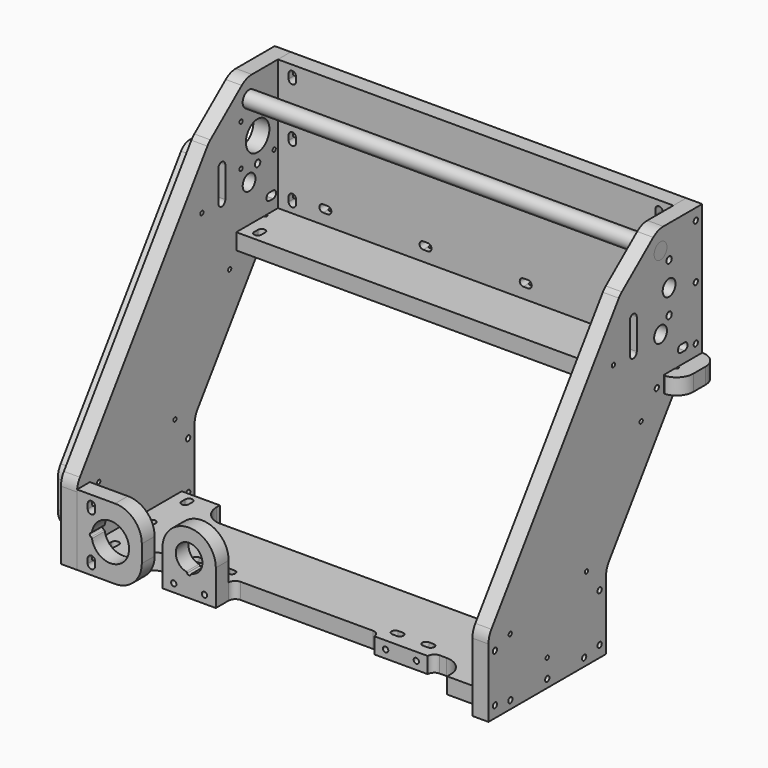
from build123d import *

# Parameters (mm, degrees)
F0_W      = 296
F0_H      = 98
F1_DEPTH  = 12
F3_DEPTH  = 12
F4_R      = 5.975
F4_R_2    = 11
F4_R_3    = 1.5
F4_R_4    = 2.5
F5_DEPTH  = 25
F6_R      = 6
F7_DEPTH  = 320
F8_R      = 5.975
F8_R_2    = 2.5
F8_R_3    = 6
F9_DEPTH  = 12
F11_DEPTH = 12
F13_DEPTH = 12
F15_DEPTH = 25
F17_DEPTH = 12
F18_R     = 2
F19_DEPTH = 21
F21_DEPTH = 25
F22_R     = 2
F23_DEPTH = 21
F24_SIZE2 = 35
F24_SIZE  = 15
F25_SIZE2 = 15
F25_SIZE  = 35
F26_R     = 15
F26_2_R   = 15
F27_R     = 2
F28_DEPTH = 21
F30_DEPTH = 12
F31_R     = 15
F32_R     = 1.5
F33_DEPTH = 344.501
F34_R     = 2
F35_DEPTH = 12
F36_R     = 2
F37_DEPTH = 10


with BuildPart() as f1:
    # F0 (on Front) → F1 (new body)
    with BuildSketch(Plane.XZ):
        with Locations((0, 49)):
            Rectangle(F0_W, F0_H)
    extrude(amount=F1_DEPTH)


with BuildPart() as f3:
    # F2 (on face) → F3 (new body)
    with BuildSketch(Plane(origin=(-148, 0, 0), x_dir=(0, -1, 0), z_dir=(-1, 0, 0))):
        Polygon((56.6998794181, 98), (0, 98), (0, 0), (24, 0), (24, -12), (90, -105.919646507), (90, -162), (200, -162), (200, -105.919646507), align=None)
    extrude(amount=F3_DEPTH)

    # F4 (on face) → F5 (cut)
    with BuildSketch(Plane.YZ.offset(-148)):
        with Locations((-39, 28)):
            Circle(F4_R)
        with Locations((-39, 83)):
            Circle(F4_R)
        with Locations((-31, 55.5)):
            Circle(F4_R_2)
        with Locations((-46.5, 71)):
            Circle(F4_R_3)
        with Locations((-46.5, 40)):
            Circle(F4_R_3)
        with Locations((-15.5, 40)):
            Circle(F4_R_3)
        with Locations((-15.5, 71)):
            Circle(F4_R_3)
        with Locations((-31, 73.75)):
            Circle(F4_R_4)
        with Locations((-31, 37.25)):
            Circle(F4_R_4)
    extrude(amount=-F5_DEPTH, mode=Mode.SUBTRACT)


with BuildPart() as f7:
    # F6 (on face) → F7 (new body)
    with BuildSketch(Plane(origin=(-160, 0, 0), x_dir=(0, -1, 0), z_dir=(-1, 0, 0))):
        with Locations((39, 83)):
            Circle(F6_R)
    extrude(amount=-F7_DEPTH)


with BuildPart() as f9:
    # F8 (on face) → F9 (new body)
    with BuildSketch(Plane.YZ.offset(148)):
        Polygon((-90, -162), (-90, -105.919646507), (-24, -12), (-24, 0), (0, 0), (0, 98), (-56.6998794181, 98), (-200, -105.919646507), (-200, -162), align=None)
        with Locations((-39, 28)):
            Circle(F8_R, mode=Mode.SUBTRACT)
        with Locations((-31, 37.25)):
            Circle(F8_R_2, mode=Mode.SUBTRACT)
        with Locations((-31, 55.5)):
            Circle(F8_R_3, mode=Mode.SUBTRACT)
        with Locations((-31, 73.75)):
            Circle(F8_R_2, mode=Mode.SUBTRACT)
        with Locations((-39, 83)):
            Circle(F8_R, mode=Mode.SUBTRACT)
    extrude(amount=F9_DEPTH)


with BuildPart() as f11:
    # F10 (on face) → F11 (new body)
    with BuildSketch(Plane.XZ.offset(200)):
        with BuildLine():
            Line((-148, -109), (-148, -162))
            Line((-148, -162), (-119.5, -162))
            ThreePointArc((-119.5, -162), (-105.3578643763, -156.1421356237), (-99.5, -142))
            Line((-99.5, -142), (-99.5, -129))
            ThreePointArc((-99.5, -129), (-105.3578643763, -114.8578643763), (-119.5, -109))
            Line((-119.5, -109), (-148, -109))
        make_face()
        with BuildLine():
            ThreePointArc((-136.7997078464, -133.2934895528), (-109.025, -135.5), (-136.7997078464, -137.7065104472))
            ThreePointArc((-136.7997078464, -137.7065104472), (-137.0218329376, -137.2207641448), (-137.4622987478, -136.9186401695))
            ThreePointArc((-137.4622987478, -136.9186401695), (-138.475, -135.5), (-137.4622987478, -134.0813598305))
            ThreePointArc((-137.4622987478, -134.0813598305), (-137.0218329376, -133.7792358552), (-136.7997078464, -133.2934895528))
        make_face(mode=Mode.SUBTRACT)
    extrude(amount=-F11_DEPTH)

    # F14 (on face) → F15 (cut)
    with BuildSketch(Plane.XZ.offset(200)):
        with BuildLine():
            ThreePointArc((-134.5, -115.75), (-137.25, -113), (-140, -115.75))
            Line((-140, -115.75), (-140, -119.25))
            ThreePointArc((-140, -119.25), (-137.25, -122), (-134.5, -119.25))
            Line((-134.5, -119.25), (-134.5, -115.75))
        make_face()
        with BuildLine():
            ThreePointArc((-140, -155.25), (-137.25, -158), (-134.5, -155.25))
            Line((-134.5, -155.25), (-134.5, -151.75))
            ThreePointArc((-134.5, -151.75), (-137.25, -149), (-140, -151.75))
            Line((-140, -151.75), (-140, -155.25))
        make_face()
    extrude(amount=-F15_DEPTH, mode=Mode.SUBTRACT)


with BuildPart() as f13:
    # F12 (on face) → F13 (new body)
    with BuildSketch(Plane(origin=(0, 0, -162), x_dir=(1, 0, 0), z_dir=(0, 0, -1))):
        with BuildLine():
            Line((-99.5, 170), (-104.5, 170))
            ThreePointArc((-104.5, 170), (-115.1066017178, 174.3933982822), (-119.5, 185))
            Line((-119.5, 185), (-119.5, 188))
            Line((-119.5, 188), (-148, 188))
            Line((-148, 188), (-148, 145))
            Line((-148, 145), (-148, 102))
            Line((-148, 102), (-119.5, 102))
            Line((-119.5, 102), (-119.5, 105))
            ThreePointArc((-119.5, 105), (-115.1066017178, 115.6066017178), (-104.5, 120))
            Line((-104.5, 120), (0, 120))
            Line((0, 120), (104.5, 120))
            ThreePointArc((104.5, 120), (115.1066017178, 115.6066017178), (119.5, 105))
            Line((119.5, 105), (119.5, 102))
            Line((119.5, 102), (148, 102))
            Line((148, 102), (148, 145))
            Line((148, 145), (148, 188))
            Line((148, 188), (119.5, 188))
            Line((119.5, 188), (119.5, 185))
            ThreePointArc((119.5, 185), (115.1066017178, 174.3933982822), (104.5, 170))
            Line((104.5, 170), (99.5, 170))
            ThreePointArc((99.5, 170), (95.9644660941, 171.4644660941), (94.5, 175))
            Line((94.5, 175), (54.5, 175))
            ThreePointArc((54.5, 175), (53.0355339059, 171.4644660941), (49.5, 170))
            Line((49.5, 170), (0, 170))
            Line((0, 170), (-49.5, 170))
            ThreePointArc((-49.5, 170), (-53.0355339059, 171.4644660941), (-54.5, 175))
            Line((-54.5, 175), (-94.5, 175))
            ThreePointArc((-94.5, 175), (-95.9644660941, 171.4644660941), (-99.5, 170))
        make_face()
        with BuildLine():
            Line((-134.5, 112.25), (-134.5, 108.75))
            ThreePointArc((-134.5, 108.75), (-137.25, 106), (-140, 108.75))
            Line((-140, 108.75), (-140, 112.25))
            ThreePointArc((-140, 112.25), (-137.25, 115), (-134.5, 112.25))
        make_face(mode=Mode.SUBTRACT)
        with BuildLine():
            ThreePointArc((140, 108.75), (137.25, 106), (134.5, 108.75))
            Line((134.5, 108.75), (134.5, 112.25))
            ThreePointArc((134.5, 112.25), (137.25, 115), (140, 112.25))
            Line((140, 112.25), (140, 108.75))
        make_face(mode=Mode.SUBTRACT)
        with BuildLine():
            Line((-134.5, 146.75), (-134.5, 143.25))
            ThreePointArc((-134.5, 143.25), (-137.25, 140.5), (-140, 143.25))
            Line((-140, 143.25), (-140, 146.75))
            ThreePointArc((-140, 146.75), (-137.25, 149.5), (-134.5, 146.75))
        make_face(mode=Mode.SUBTRACT)
        with BuildLine():
            Line((-84.25, 161), (-87.75, 161))
            ThreePointArc((-87.75, 161), (-90.5, 163.75), (-87.75, 166.5))
            Line((-87.75, 166.5), (-84.25, 166.5))
            ThreePointArc((-84.25, 166.5), (-81.5, 163.75), (-84.25, 161))
        make_face(mode=Mode.SUBTRACT)
        with BuildLine():
            ThreePointArc((-64.75, 161), (-67.5, 163.75), (-64.75, 166.5))
            Line((-64.75, 166.5), (-61.25, 166.5))
            ThreePointArc((-61.25, 166.5), (-58.5, 163.75), (-61.25, 161))
            Line((-61.25, 161), (-64.75, 161))
        make_face(mode=Mode.SUBTRACT)
        with BuildLine():
            ThreePointArc((-134.5, 177.75), (-137.25, 175), (-140, 177.75))
            Line((-140, 177.75), (-140, 181.25))
            ThreePointArc((-140, 181.25), (-137.25, 184), (-134.5, 181.25))
            Line((-134.5, 181.25), (-134.5, 177.75))
        make_face(mode=Mode.SUBTRACT)
        with BuildLine():
            ThreePointArc((61.25, 161), (58.5, 163.75), (61.25, 166.5))
            Line((61.25, 166.5), (64.75, 166.5))
            ThreePointArc((64.75, 166.5), (67.5, 163.75), (64.75, 161))
            Line((64.75, 161), (61.25, 161))
        make_face(mode=Mode.SUBTRACT)
        with BuildLine():
            Line((140, 146.75), (140, 143.25))
            ThreePointArc((140, 143.25), (137.25, 140.5), (134.5, 143.25))
            Line((134.5, 143.25), (134.5, 146.75))
            ThreePointArc((134.5, 146.75), (137.25, 149.5), (140, 146.75))
        make_face(mode=Mode.SUBTRACT)
        with BuildLine():
            Line((84.25, 166.5), (87.75, 166.5))
            ThreePointArc((87.75, 166.5), (90.5, 163.75), (87.75, 161))
            Line((87.75, 161), (84.25, 161))
            ThreePointArc((84.25, 161), (81.5, 163.75), (84.25, 166.5))
        make_face(mode=Mode.SUBTRACT)
        with BuildLine():
            ThreePointArc((134.5, 181.25), (137.25, 184), (140, 181.25))
            Line((140, 181.25), (140, 177.75))
            ThreePointArc((140, 177.75), (137.25, 175), (134.5, 177.75))
            Line((134.5, 177.75), (134.5, 181.25))
        make_face(mode=Mode.SUBTRACT)
    extrude(amount=-F13_DEPTH)


with BuildPart() as f17:
    # F16 (on face) → F17 (new body)
    with BuildSketch(Plane(origin=(0, 0, 0), x_dir=(1, 0, 0), z_dir=(0, 0, -1))):
        with BuildLine():
            Line((-160, 11.5), (-160, 0))
            Line((-160, 0), (160, 0))
            Line((160, 0), (160, 11.5))
            Line((160, 11.5), (160, 12.5))
            Line((160, 12.5), (160, 22.5))
            ThreePointArc((160, 22.5), (159.1784161637, 22.7450099602), (158.6252272915, 23.4))
            ThreePointArc((158.6252272915, 23.4), (158.25643471, 23.8366600265), (157.7087121525, 24))
            Line((157.7087121525, 24), (150.2912878475, 24))
            ThreePointArc((150.2912878475, 24), (149.74356529, 23.8366600265), (149.3747727085, 23.4))
            ThreePointArc((149.3747727085, 23.4), (146.9393398282, 22.9393398282), (147.4, 25.3747727085))
            ThreePointArc((147.4, 25.3747727085), (147.8366600265, 25.74356529), (148, 26.2912878475))
            Line((148, 26.2912878475), (148, 51))
            Line((148, 51), (0, 51))
            Line((0, 51), (-148, 51))
            Line((-148, 51), (-148, 26.2912878475))
            ThreePointArc((-148, 26.2912878475), (-147.8366600265, 25.74356529), (-147.4, 25.3747727085))
            ThreePointArc((-147.4, 25.3747727085), (-146.9393398282, 22.9393398282), (-149.3747727085, 23.4))
            ThreePointArc((-149.3747727085, 23.4), (-149.74356529, 23.8366600265), (-150.2912878475, 24))
            Line((-150.2912878475, 24), (-157.7087121525, 24))
            ThreePointArc((-157.7087121525, 24), (-158.25643471, 23.8366600265), (-158.6252272915, 23.4))
            ThreePointArc((-158.6252272915, 23.4), (-160.7799539648, 22.7187225856), (-161.1643633307, 24.9456521739))
            ThreePointArc((-161.1643633307, 24.9456521739), (-166.9860844834, 22.8655498451), (-171.0989864402, 18.25))
            ThreePointArc((-171.0989864402, 18.25), (-166.4951905284, 13.3199953184), (-160, 11.5))
        make_face()
        with BuildLine():
            ThreePointArc((-172.5, 12.5), (-168.8388347648, 3.6611652352), (-160, 0))
            Line((-160, 0), (-160, 11.5))
            ThreePointArc((-160, 11.5), (-166.4951905284, 13.3199953184), (-171.0989864402, 18.25))
            ThreePointArc((-171.0989864402, 18.25), (-172.1446970012, 15.4591104658), (-172.5, 12.5))
        make_face()
        with BuildLine():
            Line((160, 11.5), (160, 0))
            ThreePointArc((160, 0), (168.8388347648, 3.6611652352), (172.5, 12.5))
            ThreePointArc((172.5, 12.5), (172.1446970012, 15.4591104658), (171.0989864402, 18.25))
            ThreePointArc((171.0989864402, 18.25), (166.4951905284, 13.3199953184), (160, 11.5))
        make_face()
        with BuildLine():
            Line((-172.5, 24), (-172.5, 12.5))
            ThreePointArc((-172.5, 12.5), (-172.1446970012, 15.4591104658), (-171.0989864402, 18.25))
            ThreePointArc((-171.0989864402, 18.25), (-172.1446970012, 21.0408895342), (-172.5, 24))
        make_face()
        with BuildLine():
            Line((160, 12.5), (160, 11.5))
            ThreePointArc((160, 11.5), (166.4951905284, 13.3199953184), (171.0989864402, 18.25))
            ThreePointArc((171.0989864402, 18.25), (166.9860844834, 22.8655498451), (161.1643633307, 24.9456521739))
            ThreePointArc((161.1643633307, 24.9456521739), (161.3543408472, 23.3552047848), (160, 22.5))
            Line((160, 22.5), (160, 12.5))
        make_face()
        with BuildLine():
            ThreePointArc((171.0989864402, 18.25), (172.1446970012, 15.4591104658), (172.5, 12.5))
            Line((172.5, 12.5), (172.5, 24))
            ThreePointArc((172.5, 24), (172.1446970012, 21.0408895342), (171.0989864402, 18.25))
        make_face()
        with BuildLine():
            ThreePointArc((-172.5, 24), (-172.1446970012, 21.0408895342), (-171.0989864402, 18.25))
            ThreePointArc((-171.0989864402, 18.25), (-166.9860844834, 22.8655498451), (-161.1643633307, 24.9456521739))
            ThreePointArc((-161.1643633307, 24.9456521739), (-160.9078990027, 25.1940349245), (-160.6, 25.3747727085))
            ThreePointArc((-160.6, 25.3747727085), (-160.1633399735, 25.74356529), (-160, 26.2912878475))
            Line((-160, 26.2912878475), (-160, 35.4564392374))
            ThreePointArc((-160, 35.4564392374), (-160.3243360753, 36.1936490182), (-161.0869565217, 36.452651345))
            ThreePointArc((-161.0869565217, 36.452651345), (-169.2151222597, 32.4457990587), (-172.5, 24))
        make_face()
        with BuildLine():
            ThreePointArc((161.1643633307, 24.9456521739), (166.9860844834, 22.8655498451), (171.0989864402, 18.25))
            ThreePointArc((171.0989864402, 18.25), (172.1446970012, 21.0408895342), (172.5, 24))
            ThreePointArc((172.5, 24), (169.2151222597, 32.4457990587), (161.0869565217, 36.452651345))
            ThreePointArc((161.0869565217, 36.452651345), (160.3243360753, 36.1936490182), (160, 35.4564392374))
            Line((160, 35.4564392374), (160, 26.2912878475))
            ThreePointArc((160, 26.2912878475), (160.1633399735, 25.74356529), (160.6, 25.3747727085))
            ThreePointArc((160.6, 25.3747727085), (160.9078990027, 25.1940349245), (161.1643633307, 24.9456521739))
        make_face()
    extrude(amount=F17_DEPTH)


with BuildPart() as f19_tool:
    # F18 (on face) → F19 (new body)
    with BuildSketch(Plane(origin=(-160, 0, 0), x_dir=(0, -1, 0), z_dir=(-1, 0, 0))):
        with Locations((194, -153.5)):
            Circle(F18_R)
        with Locations((194, -117.5)):
            Circle(F18_R)
        with Locations((96, -117.5)):
            Circle(F18_R)
        with Locations((96, -153.5)):
            Circle(F18_R)
        with Locations((179.5, -156)):
            Circle(F18_R)
        with Locations((145, -156)):
            Circle(F18_R)
        with Locations((110.5, -156)):
            Circle(F18_R)
        with Locations((6, 89.5)):
            Circle(F18_R)
        with Locations((6, 49)):
            Circle(F18_R)
        with Locations((6, 8.5)):
            Circle(F18_R)
        with BuildLine():
            ThreePointArc((16.5, 13.5), (13.75, 10.75), (16.5, 8))
            Line((16.5, 8), (20, 8))
            ThreePointArc((20, 8), (22.75, 10.75), (20, 13.5))
            Line((20, 13.5), (16.5, 13.5))
        make_face()
        with Locations((42.5, -6)):
            Circle(F18_R)
    extrude(amount=-F19_DEPTH)


with BuildPart() as f1_1:
    add(f1.part)

    # F19: cut by f19_tool
    add(f19_tool.part, mode=Mode.SUBTRACT)

    # F20 (on face) → F21 (cut)
    with BuildSketch(Plane(origin=(0, 0, 0), x_dir=(-1, 0, 0), z_dir=(0, 1, 0))):
        with BuildLine():
            ThreePointArc((140, 91.25), (137.25, 94), (134.5, 91.25))
            Line((134.5, 91.25), (134.5, 87.75))
            ThreePointArc((134.5, 87.75), (137.25, 85), (140, 87.75))
            Line((140, 87.75), (140, 91.25))
        make_face()
        with BuildLine():
            ThreePointArc((140, 50.75), (137.25, 53.5), (134.5, 50.75))
            Line((134.5, 50.75), (134.5, 47.25))
            ThreePointArc((134.5, 47.25), (137.25, 44.5), (140, 47.25))
            Line((140, 47.25), (140, 50.75))
        make_face()
        with BuildLine():
            ThreePointArc((140, 10.25), (137.25, 13), (134.5, 10.25))
            Line((134.5, 10.25), (134.5, 6.75))
            ThreePointArc((134.5, 6.75), (137.25, 4), (140, 6.75))
            Line((140, 6.75), (140, 10.25))
        make_face()
        with BuildLine():
            Line((-134.5, 87.75), (-134.5, 91.25))
            ThreePointArc((-134.5, 91.25), (-137.25, 94), (-140, 91.25))
            Line((-140, 91.25), (-140, 87.75))
            ThreePointArc((-140, 87.75), (-137.25, 85), (-134.5, 87.75))
        make_face()
        with BuildLine():
            Line((-134.5, 47.25), (-134.5, 50.75))
            ThreePointArc((-134.5, 50.75), (-137.25, 53.5), (-140, 50.75))
            Line((-140, 50.75), (-140, 47.25))
            ThreePointArc((-140, 47.25), (-137.25, 44.5), (-134.5, 47.25))
        make_face()
        with BuildLine():
            ThreePointArc((-134.5, 10.25), (-137.25, 13), (-140, 10.25))
            Line((-140, 10.25), (-140, 6.75))
            ThreePointArc((-140, 6.75), (-137.25, 4), (-134.5, 6.75))
            Line((-134.5, 6.75), (-134.5, 10.25))
        make_face()
        with BuildLine():
            ThreePointArc((-110.75, 8), (-108, 10.75), (-110.75, 13.5))
            Line((-110.75, 13.5), (-114.25, 13.5))
            ThreePointArc((-114.25, 13.5), (-117, 10.75), (-114.25, 8))
            Line((-114.25, 8), (-110.75, 8))
        make_face()
        with BuildLine():
            ThreePointArc((-39.25, 13.5), (-42, 10.75), (-39.25, 8))
            Line((-39.25, 8), (-35.75, 8))
            ThreePointArc((-35.75, 8), (-33, 10.75), (-35.75, 13.5))
            Line((-35.75, 13.5), (-39.25, 13.5))
        make_face()
        with BuildLine():
            ThreePointArc((35.75, 13.5), (33, 10.75), (35.75, 8))
            Line((35.75, 8), (39.25, 8))
            ThreePointArc((39.25, 8), (42, 10.75), (39.25, 13.5))
            Line((39.25, 13.5), (35.75, 13.5))
        make_face()
        with BuildLine():
            ThreePointArc((110.75, 13.5), (108, 10.75), (110.75, 8))
            Line((110.75, 8), (114.25, 8))
            ThreePointArc((114.25, 8), (117, 10.75), (114.25, 13.5))
            Line((114.25, 13.5), (110.75, 13.5))
        make_face()
    extrude(amount=-F21_DEPTH, mode=Mode.SUBTRACT)


with BuildPart() as f3_1:
    add(f3.part)

    # F19: cut by f19_tool
    add(f19_tool.part, mode=Mode.SUBTRACT)

    # F24
    f24_edges = [f3_1.edges().sort_by_distance(p)[0] for p in [
        (-154, -56.699879, 98),
    ]]
    f24_side = f3_1.faces().sort_by_distance((-154, -28.34994, 98))[0]
    chamfer(f24_edges, length=F24_SIZE, length2=F24_SIZE2, reference=f24_side)

    # F26
    f26_edges = [f3_1.edges().sort_by_distance(p)[0] for p in [
        (-154, -200, -105.919647),
        (-154, -90, -105.919647),
        (-154, -41.699879, 98),
        (-154, -76.823465, 69.363636),
    ]]
    fillet(f26_edges, radius=F26_R)


with BuildPart() as f11_1:
    add(f11.part)

    # F19: cut by f19_tool
    add(f19_tool.part, mode=Mode.SUBTRACT)


with BuildPart() as f13_1:
    add(f13.part)

    # F19: cut by f19_tool
    add(f19_tool.part, mode=Mode.SUBTRACT)


with BuildPart() as f17_1:
    add(f17.part)

    # F19: cut by f19_tool
    add(f19_tool.part, mode=Mode.SUBTRACT)


with BuildPart() as f23_tool:
    # F22 (on face) → F23 (new body)
    with BuildSketch(Plane.YZ.offset(160)):
        with Locations((-96, -117.5)):
            Circle(F22_R)
        with Locations((-96, -153.5)):
            Circle(F22_R)
        with Locations((-110.5, -156)):
            Circle(F22_R)
        with Locations((-145, -156)):
            Circle(F22_R)
        with Locations((-179.5, -156)):
            Circle(F22_R)
        with Locations((-194, -153.5)):
            Circle(F22_R)
        with Locations((-194, -117.5)):
            Circle(F22_R)
        with Locations((-6, 8.5)):
            Circle(F22_R)
        with Locations((-6, 49)):
            Circle(F22_R)
        with Locations((-6, 89.5)):
            Circle(F22_R)
        with Locations((-42.5, -6)):
            Circle(F22_R)
        with BuildLine():
            Line((-20, 8), (-16.5, 8))
            ThreePointArc((-16.5, 8), (-13.75, 10.75), (-16.5, 13.5))
            Line((-16.5, 13.5), (-20, 13.5))
            ThreePointArc((-20, 13.5), (-22.75, 10.75), (-20, 8))
        make_face()
    extrude(amount=-F23_DEPTH)


with BuildPart() as f1_2:
    add(f1_1.part)

    # F23: cut by f23_tool
    add(f23_tool.part, mode=Mode.SUBTRACT)


with BuildPart() as f9_1:
    add(f9.part)

    # F23: cut by f23_tool
    add(f23_tool.part, mode=Mode.SUBTRACT)

    # F25
    f25_edges = [f9_1.edges().sort_by_distance(p)[0] for p in [
        (154, -56.699879, 98),
    ]]
    f25_side = f9_1.faces().sort_by_distance((154, -128.34994, -3.959823))[0]
    chamfer(f25_edges, length=F25_SIZE, length2=F25_SIZE2, reference=f25_side)

    # F26#2
    f26_2_edges = [f9_1.edges().sort_by_distance(p)[0] for p in [
        (154, -200, -105.919647),
        (154, -90, -105.919647),
        (154, -41.699879, 98),
        (154, -76.823465, 69.363636),
    ]]
    fillet(f26_2_edges, radius=F26_2_R)


with BuildPart() as f13_2:
    add(f13_1.part)

    # F23: cut by f23_tool
    add(f23_tool.part, mode=Mode.SUBTRACT)

    # F36 (on face) → F37 (cut)
    with BuildSketch(Plane.XZ.offset(175)):
        with Locations((-86, -156)):
            Circle(F36_R)
        with Locations((-63, -156)):
            Circle(F36_R)
        with Locations((86, -156)):
            Circle(F36_R)
        with Locations((63, -156)):
            Circle(F36_R)
    extrude(amount=-F37_DEPTH, mode=Mode.SUBTRACT)


with BuildPart() as f17_2:
    add(f17_1.part)

    # F23: cut by f23_tool
    add(f23_tool.part, mode=Mode.SUBTRACT)


with BuildPart() as f28_tool:
    # F27 (on face) → F28 (new body)
    with BuildSketch(Plane(origin=(0, 0, -12), x_dir=(1, 0, 0), z_dir=(0, 0, -1))):
        with Locations((-154, 18.25)):
            Circle(F27_R)
        with BuildLine():
            ThreePointArc((-134.5, 44.25), (-137.25, 47), (-140, 44.25))
            Line((-140, 44.25), (-140, 40.75))
            ThreePointArc((-140, 40.75), (-137.25, 38), (-134.5, 40.75))
            Line((-134.5, 40.75), (-134.5, 44.25))
        make_face()
        with Locations((154, 18.25)):
            Circle(F27_R)
        with BuildLine():
            Line((140, 40.75), (140, 44.25))
            ThreePointArc((140, 44.25), (137.25, 47), (134.5, 44.25))
            Line((134.5, 44.25), (134.5, 40.75))
            ThreePointArc((134.5, 40.75), (137.25, 38), (140, 40.75))
        make_face()
        with Locations((-112.5, 6)):
            Circle(F27_R)
        with Locations((-37.5, 6)):
            Circle(F27_R)
        with Locations((37.5, 6)):
            Circle(F27_R)
        with Locations((112.5, 6)):
            Circle(F27_R)
    extrude(amount=-F28_DEPTH)


with BuildPart() as f1_3:
    add(f1_2.part)

    # F28: cut by f28_tool
    add(f28_tool.part, mode=Mode.SUBTRACT)


with BuildPart() as f3_2:
    add(f3_1.part)

    # F28: cut by f28_tool
    add(f28_tool.part, mode=Mode.SUBTRACT)


with BuildPart() as f9_2:
    add(f9_1.part)

    # F28: cut by f28_tool
    add(f28_tool.part, mode=Mode.SUBTRACT)


with BuildPart() as f17_3:
    add(f17_2.part)

    # F28: cut by f28_tool
    add(f28_tool.part, mode=Mode.SUBTRACT)


with BuildPart() as f30:
    # F29 (on face) → F30 (new body)
    with BuildSketch(Plane(origin=(-160, 0, 0), x_dir=(0, -1, 0), z_dir=(-1, 0, 0))):
        with BuildLine():
            Line((102, -150), (188, -150))
            Line((188, -150), (188, -114.4577961895))
            ThreePointArc((188, -114.4577961895), (187.3019388387, -109.9351260208), (185.2727272727, -105.8334025708))
            Line((185.2727272727, -105.8334025708), (72.6818181818, 54.3862698795))
            ThreePointArc((72.6818181818, 54.3862698795), (61.4848865542, 58.1713000262), (54.5, 48.6366741337))
            Line((54.5, 48.6366741337), (54.5, -6))
            ThreePointArc((54.5, -6), (51.1181785773, -14.3502693376), (42.878833665, -17.9940187199))
            Line((42.878833665, -17.9940187199), (97.0909090909, -95.1391544837))
            ThreePointArc((97.0909090909, -95.1391544837), (100.7434899096, -102.5222566937), (102, -110.6630629973))
            Line((102, -110.6630629973), (102, -150))
        make_face()
    extrude(amount=F30_DEPTH)

    # F31
    f31_edges = [f30.edges().sort_by_distance(p)[0] for p in [
        (-166, -42.878834, -17.994019),
        (-166, -102, -150),
        (-166, -188, -150),
    ]]
    fillet(f31_edges, radius=F31_R)


with BuildPart() as f33_tool:
    # F32 (on face) → F33 (new body, through all)
    with BuildSketch(Plane(origin=(-172, 0, 0), x_dir=(0, -1, 0), z_dir=(-1, 0, 0))):
        with BuildLine():
            ThreePointArc((67.75, 48.6366741337), (64.5, 51.8866741337), (61.25, 48.6366741337))
            Line((61.25, 48.6366741337), (61.25, 25.6366741337))
            ThreePointArc((61.25, 25.6366741337), (64.5, 22.3866741337), (67.75, 25.6366741337))
            Line((67.75, 25.6366741337), (67.75, 48.6366741337))
        make_face()
        with Locations((57.1357050333, -22.0525141937)):
            Circle(F32_R)
        with Locations((108.3711906236, -100.110165937)):
            Circle(F32_R)
        with Locations((145, -142)):
            Circle(F32_R)
        with Locations((179.6742381247, -112.3472167774)):
            Circle(F32_R)
        with Locations((83.1071969297, 25.6366741337)):
            Circle(F32_R)
    extrude(amount=-F33_DEPTH)


with BuildPart() as f3_3:
    add(f3_2.part)

    # F33: cut by f33_tool
    add(f33_tool.part, mode=Mode.SUBTRACT)


with BuildPart() as f9_3:
    add(f9_2.part)

    # F33: cut by f33_tool
    add(f33_tool.part, mode=Mode.SUBTRACT)


with BuildPart() as f30_1:
    add(f30.part)

    # F33: cut by f33_tool
    add(f33_tool.part, mode=Mode.SUBTRACT)


with BuildPart() as f35:
    # F34 (on face) → F35 (new body)
    with BuildSketch(Plane.XZ.offset(175)):
        with BuildLine():
            Line((-94.5, -135.5), (-94.5, -162))
            Line((-94.5, -162), (-54.5, -162))
            Line((-54.5, -162), (-54.5, -135.5))
            ThreePointArc((-54.5, -135.5), (-74.5, -115.5), (-94.5, -135.5))
        make_face()
        with Locations((-86, -156)):
            Circle(F34_R, mode=Mode.SUBTRACT)
        with Locations((-63, -156)):
            Circle(F34_R, mode=Mode.SUBTRACT)
        with BuildLine():
            ThreePointArc((-76.6712745198, -145.2358200456), (-74.5, -125.525), (-72.3287254802, -145.2358200456))
            ThreePointArc((-72.3287254802, -145.2358200456), (-72.7894094573, -145.4771083652), (-73.0666323095, -145.9171052632))
            ThreePointArc((-73.0666323095, -145.9171052632), (-74.5, -146.975), (-75.9333676905, -145.9171052632))
            ThreePointArc((-75.9333676905, -145.9171052632), (-76.2105905427, -145.4771083652), (-76.6712745198, -145.2358200456))
        make_face(mode=Mode.SUBTRACT)
    extrude(amount=F35_DEPTH)


solid = Compound([f7.part, f11_1.part, f13_2.part, f1_3.part, f17_3.part, f3_3.part, f9_3.part, f30_1.part, f35.part])
